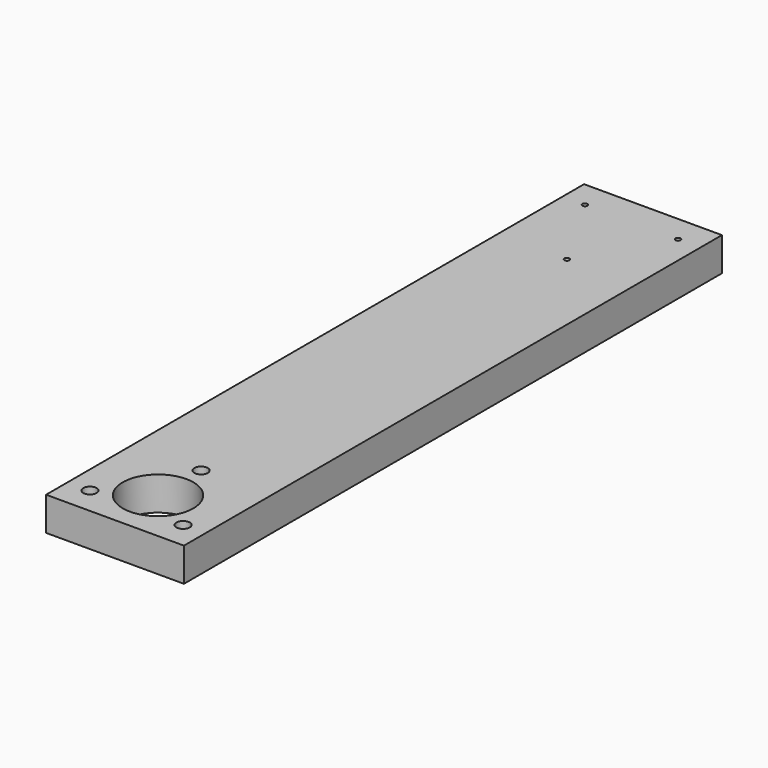
from build123d import *

# Parameters (mm, degrees)
F0_W     = 41
F0_H     = 200
F1_DEPTH = 10
F2_R     = 2
F2_R_2   = 0.75
F2_R_3   = 10.5
F3_DEPTH = 25
F4_DEPTH = 25


with BuildPart() as f1:
    # F0 (on Top) → F1 (new body)
    with BuildSketch(Plane.XY):
        Rectangle(F0_W, F0_H)
    extrude(amount=F1_DEPTH)

    # F2 (on face) → F3 (cut)
    with BuildSketch(Plane.XY.offset(10)):
        with Locations((0, -68)):
            Circle(F2_R)
        with Locations((-13.856406, -92)):
            Circle(F2_R)
        with Locations((13.856406, -92)):
            Circle(F2_R)
        with Locations((0, 68)):
            Circle(F2_R_2)
        with Locations((-13.856406, 92)):
            Circle(F2_R_2)
        with Locations((13.856406, 92)):
            Circle(F2_R_2)
        with Locations((0, -84)):
            Circle(F2_R_3)
    extrude(amount=-F3_DEPTH, mode=Mode.SUBTRACT)

    # F2 (on face) → F4 (cut)
    with BuildSketch(Plane.XY.offset(10)):
        with Locations((0, -68)):
            Circle(F2_R)
        with Locations((-13.856406, -92)):
            Circle(F2_R)
        with Locations((13.856406, -92)):
            Circle(F2_R)
        with Locations((0, 68)):
            Circle(F2_R_2)
        with Locations((-13.856406, 92)):
            Circle(F2_R_2)
        with Locations((13.856406, 92)):
            Circle(F2_R_2)
        with Locations((0, -84)):
            Circle(F2_R_3)
    extrude(amount=-F4_DEPTH, mode=Mode.SUBTRACT)


solid = f1.part
